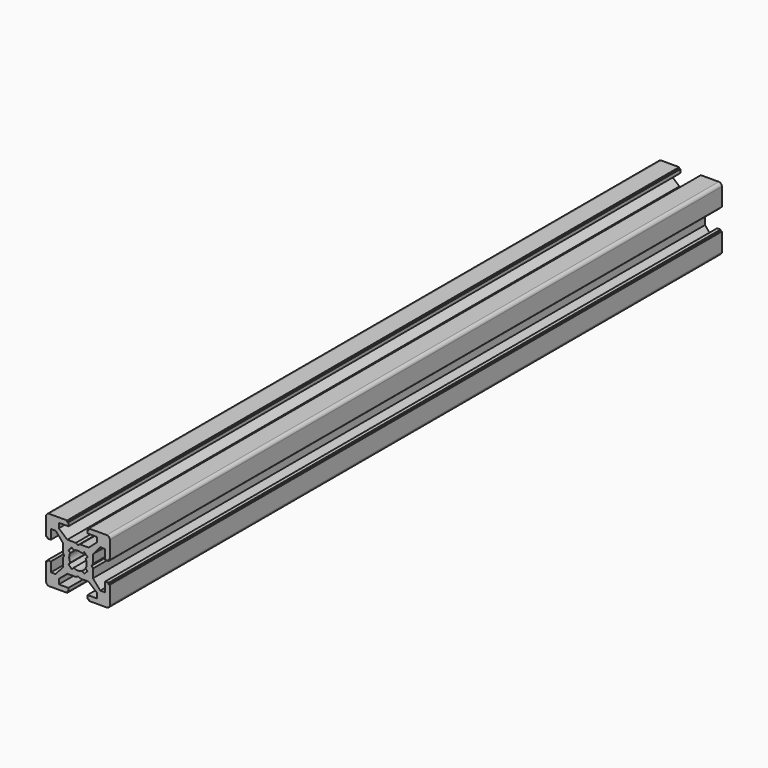
from build123d import *

# Parameters (mm, degrees)
PAD_DEPTH          = 240
POCKET_DEPTH       = 380
POLARPATTERN_COUNT = 4
POCKET001_DEPTH    = 380


with BuildPart() as part:
    # Sketch → Pad (new body)
    with BuildSketch(Plane.XZ):
        with BuildLine():
            Line((-9, 10), (9, 10))
            ThreePointArc((10, 9), (9.707107, 9.707107), (9, 10))
            Line((10, 9), (10, -9))
            ThreePointArc((9, -10), (9.707107, -9.707107), (10, -9))
            Line((9, -10), (-9, -10))
            ThreePointArc((-10, -9), (-9.707107, -9.707107), (-9, -10))
            Line((-10, -9), (-10, 9))
            ThreePointArc((-9, 10), (-9.707107, 9.707107), (-10, 9))
        make_face()
    extrude(amount=PAD_DEPTH)

    # Sketch001 (on Face10 of Pad) → Pocket (cut)
    with BuildSketch(Plane.XZ.offset(240)):
        Polygon((-3.4, 10), (-3.4, 9.6), (-3, 9.6), (-3, 8.5), (-6, 8.5), (-6, 7), (-3.35, 4.7), (-0.65, 4.7), (0, 4.3), (0.65, 4.7), (3.35, 4.7), (6, 7), (6, 8.5), (3, 8.5), (3, 9.6), (3.4, 9.6), (3.4, 10), align=None)
    pocket = extrude(amount=-POCKET_DEPTH, mode=Mode.SUBTRACT)

    # PolarPattern: Pocket ×4 about axis
    polarpattern_axis = Axis((0, -240, 0), (0, -1, 0))
    for i in range(1, POLARPATTERN_COUNT):
        add(pocket.rotate(polarpattern_axis, i * 360 / POLARPATTERN_COUNT), mode=Mode.SUBTRACT)

    # Sketch002 (on Face4 of PolarPattern) → Pocket001 (cut)
    with BuildSketch(Plane.XZ.offset(240)):
        with BuildLine():
            ThreePointArc((1.340499, 2.401159), (0, 2.75), (-1.340499, 2.401159))
            Line((-1.944544, 3.005204), (-1.340499, 2.401159))
            Line((-3.005204, 1.944544), (-1.944544, 3.005204))
            Line((-2.401159, 1.340499), (-3.005204, 1.944544))
            ThreePointArc((-2.401159, 1.340499), (-2.75, 0), (-2.401159, -1.340499))
            Line((-3.005204, -1.944544), (-2.401159, -1.340499))
            Line((-1.944544, -3.005204), (-3.005204, -1.944544))
            Line((-1.340499, -2.401159), (-1.944544, -3.005204))
            ThreePointArc((-1.340499, -2.401159), (0, -2.75), (1.340499, -2.401159))
            Line((1.944544, -3.005204), (1.340499, -2.401159))
            Line((3.005204, -1.944544), (1.944544, -3.005204))
            Line((2.401159, -1.340499), (3.005204, -1.944544))
            ThreePointArc((2.401159, -1.340499), (2.75, 0), (2.401159, 1.340499))
            Line((2.401159, 1.340499), (3.005204, 1.944544))
            Line((3.005204, 1.944544), (1.944544, 3.005204))
            Line((1.944544, 3.005204), (1.340499, 2.401159))
        make_face()
    extrude(amount=-POCKET001_DEPTH, mode=Mode.SUBTRACT)


solid = part.part
